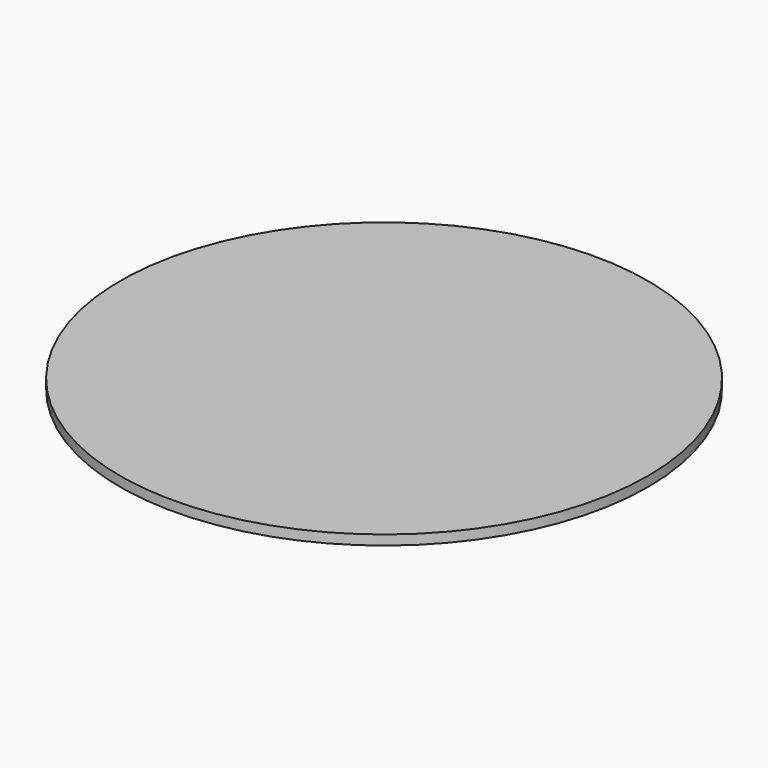
from build123d import *

# Parameters (mm, degrees)
SKETCH_R  = 27
PAD_DEPTH = 1


with BuildPart() as part:
    # Sketch → Pad (new body)
    with BuildSketch(Plane.XY):
        Circle(SKETCH_R)
    extrude(amount=PAD_DEPTH)


solid = part.part
